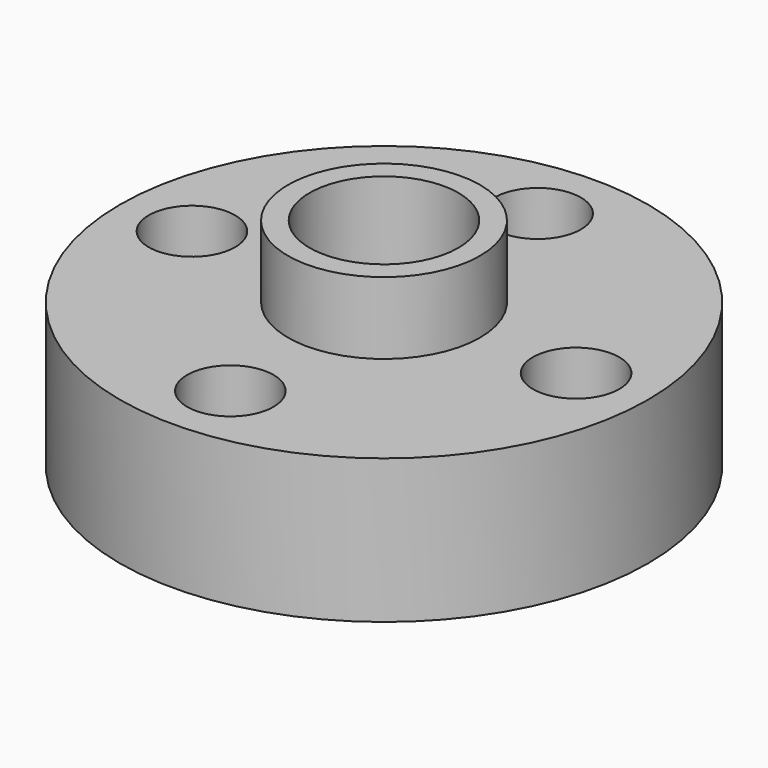
from build123d import *

# Parameters (mm, degrees)
F0_R     = 11
F0_R_2   = 1.8
F0_R_3   = 4
F1_DEPTH = 6
F0_R_4   = 3.1
F2_DEPTH = 9
F3_R     = 1.543605
F4_DEPTH = 11.001


with BuildPart() as f1:
    # F0 (on Top) → F1 (new body)
    with BuildSketch(Plane.XY):
        Circle(F0_R)
        with Locations((0, -8)):
            Circle(F0_R_2, mode=Mode.SUBTRACT)
        with Locations((-8, 0)):
            Circle(F0_R_2, mode=Mode.SUBTRACT)
        Circle(F0_R_3, mode=Mode.SUBTRACT)
        with Locations((8, 0)):
            Circle(F0_R_2, mode=Mode.SUBTRACT)
        with Locations((0, 8)):
            Circle(F0_R_2, mode=Mode.SUBTRACT)
    extrude(amount=F1_DEPTH)

    # F0 (on Top) → F2 (join)
    with BuildSketch(Plane.XY):
        Circle(F0_R_3)
        Circle(F0_R_4, mode=Mode.SUBTRACT)
    extrude(amount=F2_DEPTH)

    # F3 (on Right) → F4 (cut, through all)
    with BuildSketch(Plane.YZ):
        with Locations((0, 2.963449)):
            Circle(F3_R)
    extrude(amount=-F4_DEPTH, mode=Mode.SUBTRACT)


solid = f1.part
